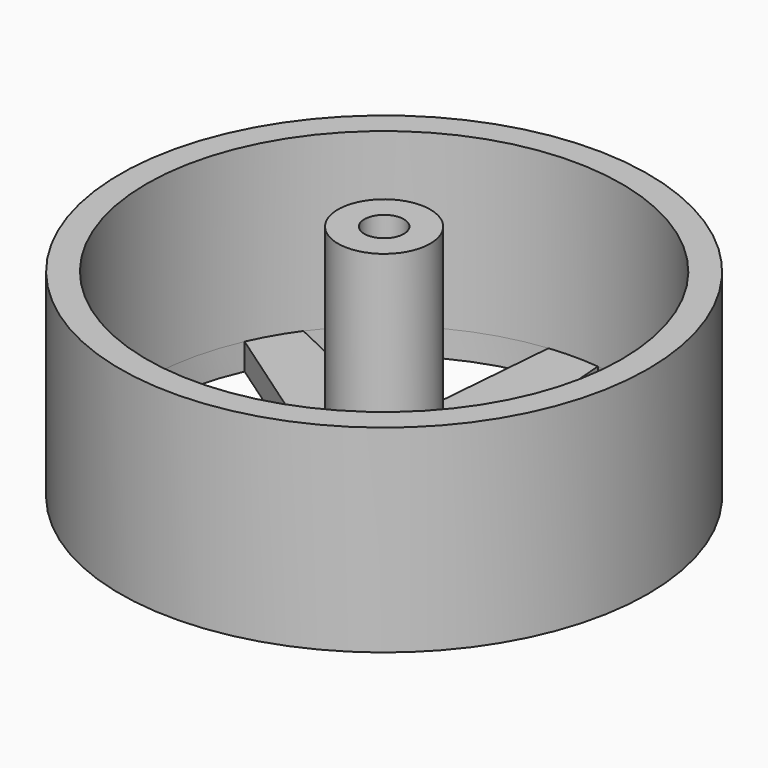
from build123d import *

# Parameters (mm, degrees)
F0_R     = 20
F1_DEPTH = 15
F2_R     = 18
F3_DEPTH = 13
F4_R     = 3.5
F4_R_2   = 1.5
F5_DEPTH = 16
F7_DEPTH = 2


with BuildPart() as f1:
    # F0 (on Top) → F1 (new body)
    with BuildSketch(Plane.XY):
        Circle(F0_R)
    extrude(amount=F1_DEPTH)

    # F2 (on face) → F3 (cut)
    with BuildSketch(Plane.XY.offset(15)):
        Circle(F2_R)
    extrude(amount=-F3_DEPTH, mode=Mode.SUBTRACT)

    # F4 (on face) → F5 (join)
    with BuildSketch(Plane.XY.offset(2)):
        Circle(F4_R)
        Circle(F4_R_2, mode=Mode.SUBTRACT)
    extrude(amount=F5_DEPTH)

    # F6 (on face) → F7 (cut)
    with BuildSketch(Plane.XY.offset(2)):
        with BuildLine():
            Line((-2.9187702811, 5.0554584226), (-1.8657855341, 17.9030400866))
            ThreePointArc((-1.8657855341, 17.9030400866), (-9, 15.5884572681), (-14.5715947529, 10.5673377138))
            Line((-14.5715947529, 10.5673377138), (-2.9187702811, 5.0554584226))
        make_face()
        with BuildLine():
            ThreePointArc((14.5715947529, 10.5673377138), (9, 15.5884572681), (1.8657855341, 17.9030400866))
            Line((1.8657855341, 17.9030400866), (2.9187702811, 5.0554584226))
            Line((2.9187702811, 5.0554584226), (14.5715947529, 10.5673377138))
        make_face()
        with BuildLine():
            ThreePointArc((18, 0), (17.6050112918, 3.7501436529), (16.437380287, 7.3357023728))
            Line((16.437380287, 7.3357023728), (5.8375405623, 0))
            Line((5.8375405623, 0), (16.437380287, -7.3357023728))
            ThreePointArc((16.437380287, -7.3357023728), (17.6050112918, -3.7501436529), (18, 0))
        make_face()
        with BuildLine():
            ThreePointArc((1.8657855341, -17.9030400866), (9, -15.5884572681), (14.5715947529, -10.5673377138))
            Line((14.5715947529, -10.5673377138), (2.9187702811, -5.0554584226))
            Line((2.9187702811, -5.0554584226), (1.8657855341, -17.9030400866))
        make_face()
        with BuildLine():
            Line((-2.9187702811, -5.0554584226), (-14.5715947529, -10.5673377138))
            ThreePointArc((-14.5715947529, -10.5673377138), (-9, -15.5884572681), (-1.8657855341, -17.9030400866))
            Line((-1.8657855341, -17.9030400866), (-2.9187702811, -5.0554584226))
        make_face()
        with BuildLine():
            Line((-5.8375405623, 0), (-16.437380287, 7.3357023728))
            ThreePointArc((-16.437380287, 7.3357023728), (-18, 0), (-16.437380287, -7.3357023728))
            Line((-16.437380287, -7.3357023728), (-5.8375405623, 0))
        make_face()
    extrude(amount=-F7_DEPTH, mode=Mode.SUBTRACT)


solid = f1.part
